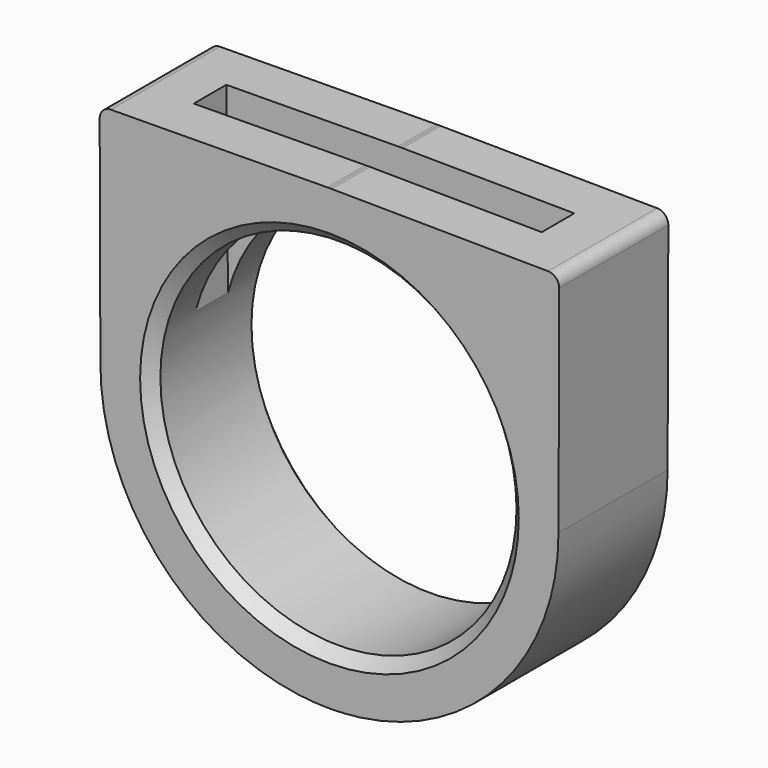
from build123d import *

# Parameters (mm, degrees)
F1_DEPTH = 8
F2_W     = 20.4098413018
F2_H     = 2.387965478
F3_DEPTH = 13.1
F4_R     = 0.66
F5_SIZE  = 0.66


with BuildPart() as f1:
    # F0 (on Front) → F1 (new body)
    with BuildSketch(Plane.XZ):
        with BuildLine():
            Line((13.435, 0), (10.445, 0))
            ThreePointArc((10.445, 0), (0, -10.445), (-10.445, 0))
            Line((-10.445, 0), (-13.435, 0))
            ThreePointArc((-13.435, 0), (-10.1247178165, -8.8311558777), (-1.8251281523, -13.3104519919))
            Line((-1.8251281523, -13.3104519919), (1.8251281523, -13.3104519919))
            ThreePointArc((1.8251281523, -13.3104519919), (10.1247178165, -8.8311558777), (13.435, 0))
        make_face()
        with BuildLine():
            ThreePointArc((-10.445, 0), (0, 10.445), (10.445, 0))
            Line((10.445, 0), (13.435, 0))
            ThreePointArc((13.435, 0), (10.1247178165, 8.8311558777), (1.8251281523, 13.3104519919))
            Line((1.8251281523, 13.3104519919), (-1.8251281523, 13.3104519919))
            ThreePointArc((-1.8251281523, 13.3104519919), (-10.1247178165, 8.8311558777), (-13.435, 0))
            Line((-13.435, 0), (-10.445, 0))
        make_face()
        with BuildLine():
            ThreePointArc((1.8251281523, 13.3104519919), (10.1247178165, 8.8311558777), (13.435, 0))
            Line((13.435, 0), (13.4794265032, 13.3104519919))
            Line((13.4794265032, 13.3104519919), (1.8251281523, 13.3104519919))
        make_face()
        with BuildLine():
            Line((-13.4794265032, 13.3104519919), (-13.435, 0))
            ThreePointArc((-13.435, 0), (-10.1247178165, 8.8311558777), (-1.8251281523, 13.3104519919))
            Line((-1.8251281523, 13.3104519919), (-13.4794265032, 13.3104519919))
        make_face()
        with BuildLine():
            ThreePointArc((-1.8251281523, -13.3104519919), (0, -13.435), (1.8251281523, -13.3104519919))
            Line((1.8251281523, -13.3104519919), (-1.8251281523, -13.3104519919))
        make_face()
        with BuildLine():
            Line((-1.8251281523, 13.3104519919), (1.8251281523, 13.3104519919))
            ThreePointArc((1.8251281523, 13.3104519919), (0.9768871079, 13.3994371739), (0.1247091036, 13.4344211874))
            ThreePointArc((0.1247091036, 13.4344211874), (2e-08, 13.435), (-0.1247090636, 13.4344211877))
            ThreePointArc((-0.1247090636, 13.4344211877), (-0.9768870879, 13.3994371754), (-1.8251281523, 13.3104519919))
        make_face()
        with BuildLine():
            ThreePointArc((0.1247091036, 13.4344211874), (0.9768871079, 13.3994371739), (1.8251281523, 13.3104519919))
            Line((1.8251281523, 13.3104519919), (13.4794265032, 13.3104519919))
            Line((13.4794265032, 13.3104519919), (0.1247091036, 13.4344211874))
        make_face()
        with BuildLine():
            Line((-13.4794265032, 13.3104519919), (-1.8251281523, 13.3104519919))
            ThreePointArc((-1.8251281523, 13.3104519919), (-0.9768870879, 13.3994371754), (-0.1247090636, 13.4344211877))
            Line((-0.1247090636, 13.4344211877), (-13.4794265032, 13.3104519919))
        make_face()
        with BuildLine():
            ThreePointArc((-0.1247090636, 13.4344211877), (2e-08, 13.435), (0.1247091036, 13.4344211874))
            Line((0.1247091036, 13.4344211874), (0, 13.4355788373))
            Line((0, 13.4355788373), (-0.1247090636, 13.4344211877))
        make_face()
    extrude(amount=F1_DEPTH)

    # F2 (on face) → F3 (cut)
    with BuildSketch(Plane(origin=(-0.12470907, 0, 13.4344211877), x_dir=(0.9999569176, 0, 0.0092824019), z_dir=(-0.0092824019, 0, 0.9999569176))):
        with Locations((0.124714443, -4)):
            Rectangle(F2_W, F2_H)
    extrude(amount=-F3_DEPTH, mode=Mode.SUBTRACT)

    # F4
    f4_edges = [f1.edges().sort_by_distance(p)[0] for p in [
        (-13.479427, -4, 13.310452),
        (13.479427, -4, 13.310452),
    ]]
    fillet(f4_edges, radius=F4_R)

    # F5
    f5_edges = [f1.edges().sort_by_distance(p)[0] for p in [
        (10.445, 0, 0),
        (10.445, -8, 0),
    ]]
    chamfer(f5_edges, length=F5_SIZE)


solid = f1.part
